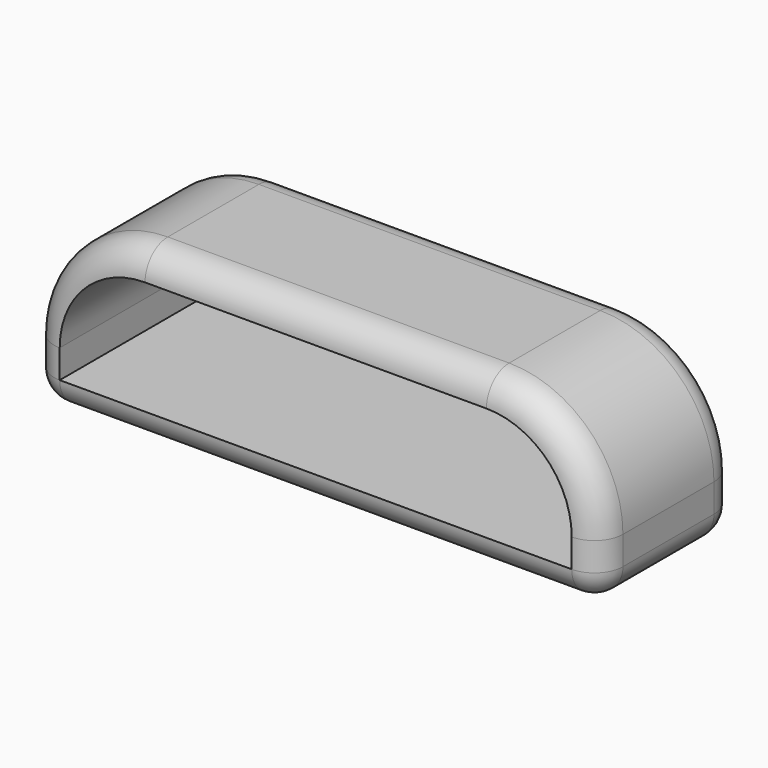
from build123d import *

# Parameters (mm, degrees)
F1_DEPTH = 15
F2_R     = 2.5
F4_DEPTH = 15.001


with BuildPart() as f1:
    # F0 (on Front) → F1 (new body)
    with BuildSketch(Plane.XZ):
        with BuildLine():
            Line((-34.4305347418, 15), (-64.4305347418, 15))
            ThreePointArc((-64.4305347418, 15), (-71.5016025537, 12.0710678119), (-74.4305347418, 5))
            Line((-74.4305347418, 5), (-24.4305347418, 5))
            ThreePointArc((-24.4305347418, 5), (-27.3594669299, 12.0710678119), (-34.4305347418, 15))
        make_face()
        with BuildLine():
            Line((-24.4305347418, 5), (-74.4305347418, 5))
            Line((-74.4305347418, 5), (-74.4305347418, 2.5))
            ThreePointArc((-74.4305347418, 2.5), (-73.6983016948, 0.732233047), (-71.9305347418, 0))
            Line((-71.9305347418, 0), (-26.9305347418, 0))
            ThreePointArc((-26.9305347418, 0), (-25.1627677888, 0.732233047), (-24.4305347418, 2.5))
            Line((-24.4305347418, 2.5), (-24.4305347418, 5))
        make_face()
    extrude(amount=F1_DEPTH)

    # F2
    f2_edges = [f1.edges().sort_by_distance(p)[0] for p in [
        (-64.430535, -7.5, 15),
        (-74.430535, -7.5, 5),
        (-71.501603, 0, 12.071068),
        (-71.501603, -15, 12.071068),
    ]]
    fillet(f2_edges, radius=F2_R)

    # F3 (on face) → F4 (cut, through all)
    with BuildSketch(Plane.XZ.offset(15)):
        with BuildLine():
            Line((-34.4305347418, 12.5), (-64.4305347418, 12.5))
            ThreePointArc((-64.4305347418, 12.5), (-69.7338356007, 10.3033008589), (-71.9305347418, 5))
            Line((-71.9305347418, 5), (-71.9305347418, 2.5))
            Line((-71.9305347418, 2.5), (-26.9305347418, 2.5))
            Line((-26.9305347418, 2.5), (-26.9305347418, 5))
            ThreePointArc((-26.9305347418, 5), (-29.1272338829, 10.3033008589), (-34.4305347418, 12.5))
        make_face()
    extrude(amount=-F4_DEPTH, mode=Mode.SUBTRACT)


solid = f1.part
